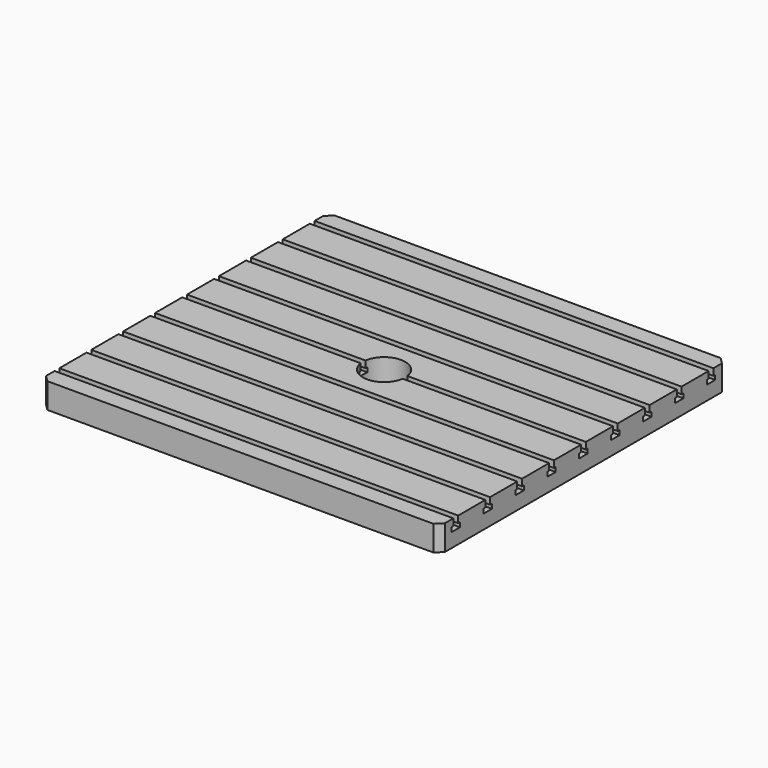
from build123d import *

# Parameters (mm, degrees)
F0_W     = 1599.946
F0_H     = 1439.926
F1_DEPTH = 101.6
F3_DEPTH = 1599.947
F4_SIZE  = 25.4
F5_R     = 84.963
F6_DEPTH = 101.601


with BuildPart() as f1:
    # F0 (on Top) → F1 (new body)
    with BuildSketch(Plane.XY):
        with Locations((799.973, 719.963)):
            Rectangle(F0_W, F0_H)
    extrude(amount=-F1_DEPTH)

    # F2 (on face) → F3 (cut, through all)
    with BuildSketch(Plane.YZ.offset(1599.946)):
        Polygon((91.9988, 0), (68.0212, 0), (68.0212, -26.9914), (68.0212, -27), (59.01, -27), (59.01, -45), (101.01, -45), (101.01, -27), (91.9988, -27), (91.9988, -26.9914), align=None)
        Polygon((1371.9048, -26.9914), (1371.9048, 0), (1347.9272, 0), (1347.9272, -26.9914), (1347.9272, -27), (1338.916, -27), (1338.916, -45), (1380.916, -45), (1380.916, -27), (1371.9048, -27), align=None)
        Polygon((261.03, -27), (252.0188, -27), (252.0188, -26.9914), (252.0188, 0), (228.0412, 0), (228.0412, -26.9914), (228.0412, -27), (219.03, -27), (219.03, -45), (261.03, -45), align=None)
        Polygon((421.05, -27), (412.0388, -27), (412.0388, -26.9914), (412.0388, 0), (388.0612, 0), (388.0612, -26.9914), (388.0612, -27), (379.05, -27), (379.05, -45), (421.05, -45), align=None)
        Polygon((581.07, -27), (572.0588, -27), (572.0588, -26.9914), (572.0588, 0), (548.0812, 0), (548.0812, -26.9914), (548.0812, -27), (539.07, -27), (539.07, -45), (581.07, -45), align=None)
        Polygon((741.09, -27), (732.0788, -27), (732.0788, -26.9914), (732.0788, 0), (708.1012, 0), (708.1012, -26.9914), (708.1012, -27), (699.09, -27), (699.09, -45), (741.09, -45), align=None)
        Polygon((901.11, -27), (892.0988, -27), (892.0988, -26.9914), (892.0988, 0), (868.1212, 0), (868.1212, -26.9914), (868.1212, -27), (859.11, -27), (859.11, -45), (901.11, -45), align=None)
        Polygon((1061.13, -27), (1052.1188, -27), (1052.1188, -26.9914), (1052.1188, 0), (1028.1412, 0), (1028.1412, -26.9914), (1028.1412, -27), (1019.13, -27), (1019.13, -45), (1061.13, -45), align=None)
        Polygon((1221.15, -27), (1212.1388, -27), (1212.1388, -26.9914), (1212.1388, 0), (1188.1612, 0), (1188.1612, -26.9914), (1188.1612, -27), (1179.15, -27), (1179.15, -45), (1221.15, -45), align=None)
    extrude(amount=-F3_DEPTH, mode=Mode.SUBTRACT)

    # F4
    f4_edges = [f1.edges().sort_by_distance(p)[0] for p in [
        (1599.946, 0, -50.8),
        (1599.946, 1439.926, -50.8),
        (0, 0, -50.8),
        (0, 1439.926, -50.8),
    ]]
    chamfer(f4_edges, length=F4_SIZE)

    # F5 (on face) → F6 (cut, through all)
    with BuildSketch(Plane.XY):
        with Locations((800.1, 720.09)):
            Circle(F5_R)
    extrude(amount=-F6_DEPTH, mode=Mode.SUBTRACT)


solid = f1.part
